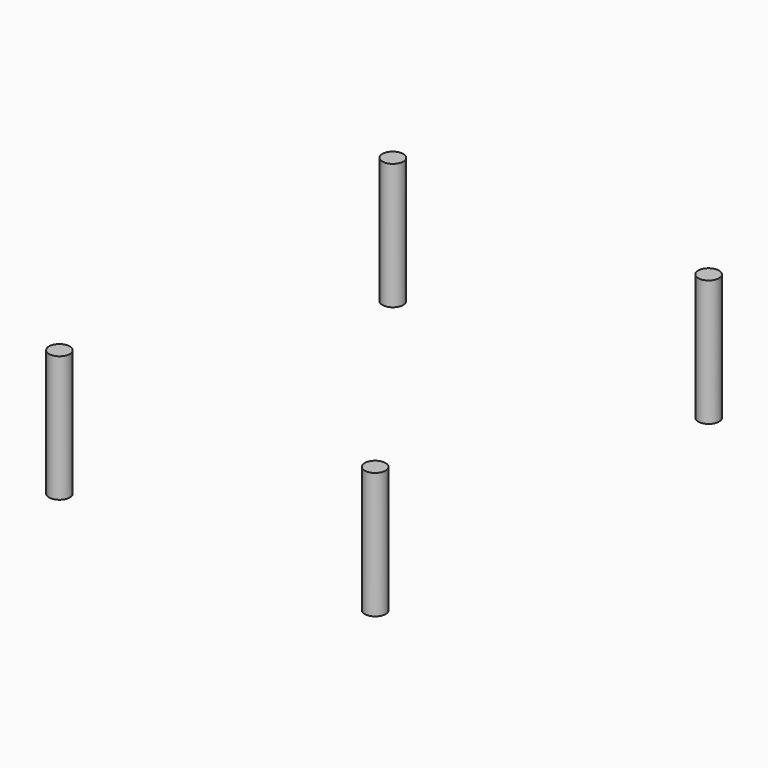
from build123d import *

# Parameters (mm, degrees)
CYLINDER029_R     = 1.65
CYLINDER029_DEPTH = 20
CYLINDER030_R     = 1.65
CYLINDER030_DEPTH = 20
CYLINDER031_R     = 1.65
CYLINDER031_DEPTH = 20
CYLINDER028_R     = 1.65
CYLINDER028_DEPTH = 20


with BuildPart() as cylinder029:
    # Cylinder029 → Cylinder029 (new body)
    with BuildSketch(Plane(origin=(70, 12, -8), x_dir=(1, 0, 0), z_dir=(0, 0, 1))):
        Circle(CYLINDER029_R)
    extrude(amount=CYLINDER029_DEPTH)


with BuildPart() as cylinder030:
    # Cylinder030 → Cylinder030 (new body)
    with BuildSketch(Plane(origin=(70, 78, -8), x_dir=(1, 0, 0), z_dir=(0, 0, 1))):
        Circle(CYLINDER030_R)
    extrude(amount=CYLINDER030_DEPTH)


with BuildPart() as cylinder031:
    # Cylinder031 → Cylinder031 (new body)
    with BuildSketch(Plane(origin=(20, 78, -8), x_dir=(1, 0, 0), z_dir=(0, 0, 1))):
        Circle(CYLINDER031_R)
    extrude(amount=CYLINDER031_DEPTH)


with BuildPart() as fusion046:
    # Cylinder028 → Cylinder028 (new body)
    with BuildSketch(Plane(origin=(20, 12, -8), x_dir=(1, 0, 0), z_dir=(0, 0, 1))):
        Circle(CYLINDER028_R)
    extrude(amount=CYLINDER028_DEPTH)

    # Fusion046: union Cylinder029, Cylinder030, Cylinder031
    add(cylinder029.part)
    add(cylinder030.part)
    add(cylinder031.part)


solid = fusion046.part
